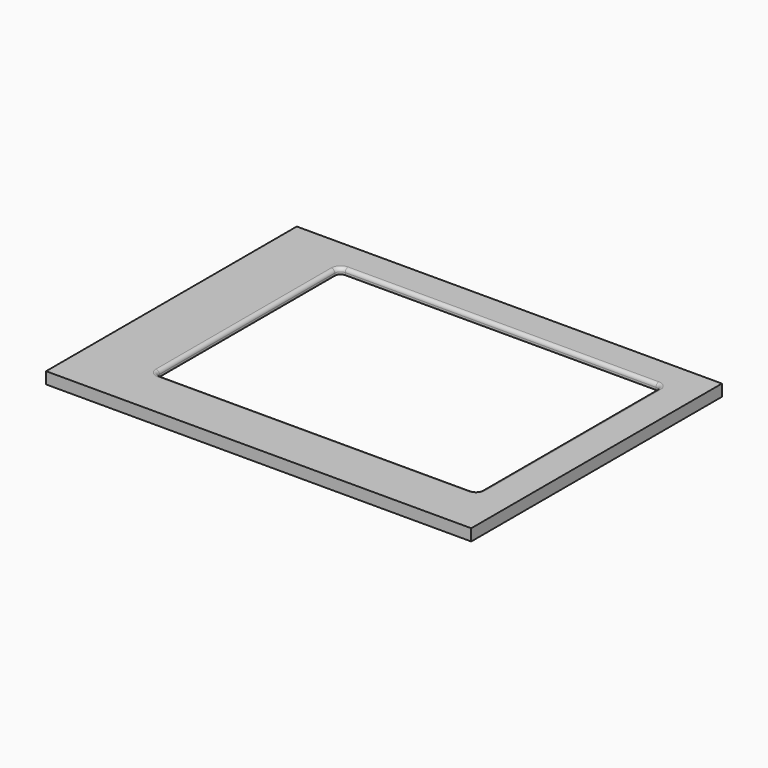
from build123d import *

# Parameters (mm, degrees)
F0_W     = 72.89
F0_H     = 53.72
F1_DEPTH = 2
F2_DEPTH = 1
F3_START = 1
F0_W_2   = 2.2
F0_H_2   = 12.58
F3_DEPTH = 1
F4_R     = 0.6


with BuildPart() as f1:
    # F0 (on Top) → F1 (new body)
    with BuildSketch(Plane.XY):
        with Locations((5.6164505921, 7.9296875)):
            Rectangle(F0_W, F0_H)
        Polygon((-21.5285494079, 30.8196875), (37.6814505921, 30.8196875), (37.6814505921, -11.7603125), (-21.5285494079, -11.7603125), (-21.5285494079, 13.2396875), (-23.7285494079, 13.2396875), (-23.7285494079, 25.8196875), (-21.5285494079, 25.8196875), align=None, mode=Mode.SUBTRACT)
        Polygon((37.6814505921, -11.7603125), (37.6814505921, 30.8196875), (-21.5285494079, 30.8196875), (-21.5285494079, 25.8196875), (-21.5285494079, 13.2396875), (-21.5285494079, -11.7603125), align=None)
        with BuildLine():
            ThreePointArc((-19.1285494079, 28.3196875), (-18.835656189, 29.0267942812), (-18.1285494079, 29.3196875))
            Line((-18.1285494079, 29.3196875), (35.1314505921, 29.3196875))
            ThreePointArc((35.1314505921, 29.3196875), (35.8385573733, 29.0267942812), (36.1314505921, 28.3196875))
            Line((36.1314505921, 28.3196875), (36.1314505921, -9.2603125))
            ThreePointArc((36.1314505921, -9.2603125), (35.8385573733, -9.9674192812), (35.1314505921, -10.2603125))
            Line((35.1314505921, -10.2603125), (-18.1285494079, -10.2603125))
            ThreePointArc((-18.1285494079, -10.2603125), (-18.835656189, -9.9674192812), (-19.1285494079, -9.2603125))
            Line((-19.1285494079, -9.2603125), (-19.1285494079, 28.3196875))
        make_face(mode=Mode.SUBTRACT)
    extrude(amount=F1_DEPTH)

    # F0 (on Top) → F2 (cut)
    with BuildSketch(Plane.XY):
        Polygon((37.6814505921, -11.7603125), (37.6814505921, 30.8196875), (-21.5285494079, 30.8196875), (-21.5285494079, 25.8196875), (-21.5285494079, 13.2396875), (-21.5285494079, -11.7603125), align=None)
        with BuildLine():
            ThreePointArc((-19.1285494079, 28.3196875), (-18.835656189, 29.0267942812), (-18.1285494079, 29.3196875))
            Line((-18.1285494079, 29.3196875), (35.1314505921, 29.3196875))
            ThreePointArc((35.1314505921, 29.3196875), (35.8385573733, 29.0267942812), (36.1314505921, 28.3196875))
            Line((36.1314505921, 28.3196875), (36.1314505921, -9.2603125))
            ThreePointArc((36.1314505921, -9.2603125), (35.8385573733, -9.9674192812), (35.1314505921, -10.2603125))
            Line((35.1314505921, -10.2603125), (-18.1285494079, -10.2603125))
            ThreePointArc((-18.1285494079, -10.2603125), (-18.835656189, -9.9674192812), (-19.1285494079, -9.2603125))
            Line((-19.1285494079, -9.2603125), (-19.1285494079, 28.3196875))
        make_face(mode=Mode.SUBTRACT)
    extrude(amount=F2_DEPTH, mode=Mode.SUBTRACT)

    # F0 (on Top) → F3 (join)
    with BuildSketch(Plane.XY.offset(F3_START)):
        with Locations((-22.6285494079, 19.5296875)):
            Rectangle(F0_W_2, F0_H_2)
    extrude(amount=F3_DEPTH)

    # F4
    f4_edges = [f1.edges().sort_by_distance(p)[0] for p in [
        (8.501451, 29.319688, 2),
        (-19.128549, 9.529688, 2),
        (8.501451, -10.260312, 2),
        (36.131451, 9.529688, 2),
    ]]
    fillet(f4_edges, radius=F4_R)


solid = f1.part
